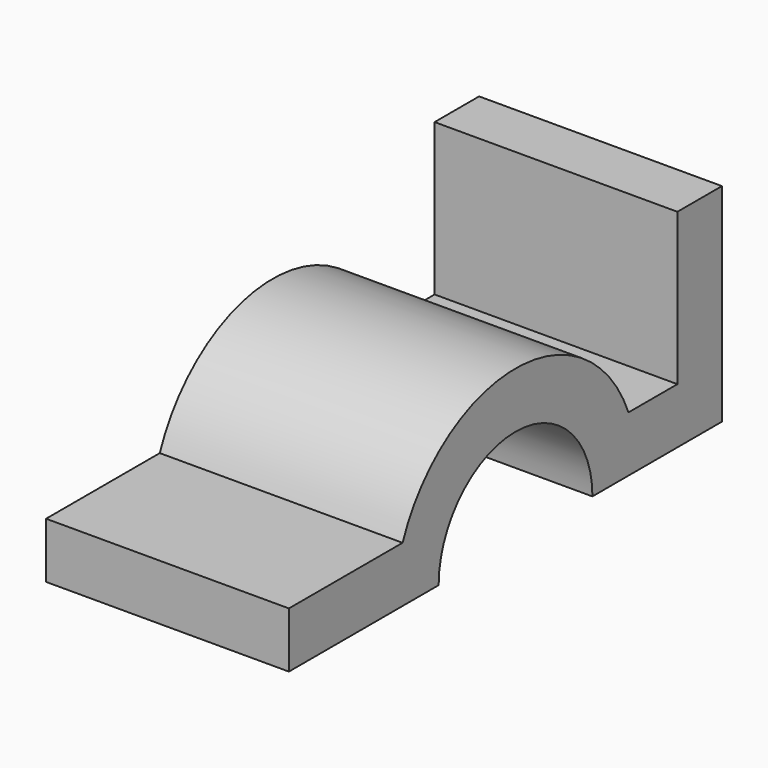
from build123d import *

# Parameters (mm, degrees)
F1_DEPTH = 48


with BuildPart() as f1:
    # F0 (on Right) → F1 (new body)
    with BuildSketch(Plane.YZ):
        with BuildLine():
            ThreePointArc((-37.681833, -17.882504), (-18.681833, 1.117496), (0.318167, -17.882504))
            Line((0.318167, -17.882504), (32.318167, -17.882504))
            Line((32.318167, -17.882504), (32.318167, 23.117496))
            Line((32.318167, 23.117496), (21.318167, 23.117496))
            Line((21.318167, 23.117496), (21.318167, -6.882504))
            Line((21.318167, -6.882504), (9.228739, -6.882504))
            ThreePointArc((9.228739, -6.882504), (-18.681833, 12.117496), (-46.592404, -6.882504))
            Line((-46.592404, -6.882504), (-74.681833, -6.882504))
            Line((-74.681833, -6.882504), (-74.681833, -17.882504))
            Line((-74.681833, -17.882504), (-37.681833, -17.882504))
        make_face()
    extrude(amount=F1_DEPTH)


solid = f1.part
